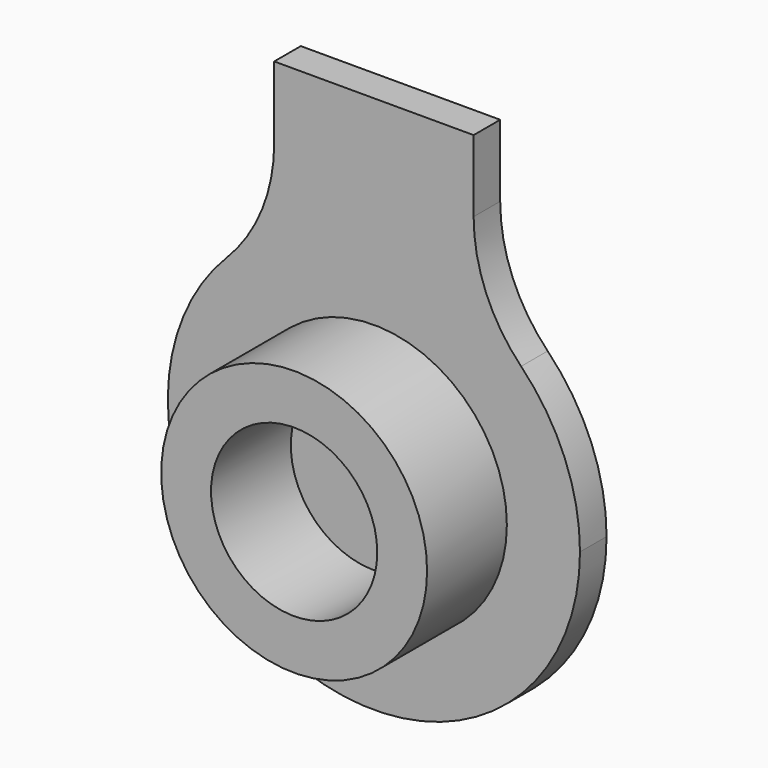
from build123d import *

# Parameters (mm, degrees)
F1_DEPTH = 5
F2_R     = 25
F3_R     = 20
F3_R_2   = 12.5
F4_DEPTH = 15


with BuildPart() as f1:
    # F0 (on Front) → F1 (new body)
    with BuildSketch(Plane.XZ):
        with BuildLine():
            Line((15, 0), (15, 27.12932))
            ThreePointArc((15, 27.12932), (0, 31), (-15, 27.12932))
            Line((-15, 27.12932), (-15, 0))
            Line((-15, 0), (0, 0))
            Line((0, 0), (15, 0))
        make_face()
        with BuildLine():
            ThreePointArc((-15, 27.12932), (-15.748016, -26.70206), (31, 0))
            ThreePointArc((31, 0), (26.70206, 15.748016), (15, 27.12932))
            Line((15, 27.12932), (15, 0))
            Line((15, 0), (0, 0))
            Line((0, 0), (-15, 0))
            Line((-15, 0), (-15, 27.12932))
        make_face()
        with BuildLine():
            ThreePointArc((-15, 27.12932), (0, 31), (15, 27.12932))
            Line((15, 27.12932), (15, 50))
            Line((15, 50), (-15, 50))
            Line((-15, 50), (-15, 27.12932))
        make_face()
    extrude(amount=F1_DEPTH)

    # F2
    f2_edges = [f1.edges().sort_by_distance(p)[0] for p in [
        (-15, -2.5, 27.12932),
        (15, -2.5, 27.12932),
    ]]
    fillet(f2_edges, radius=F2_R)

    # F3 (on face) → F4 (join)
    with BuildSketch(Plane.XZ.offset(5)):
        Circle(F3_R)
        Circle(F3_R_2, mode=Mode.SUBTRACT)
    extrude(amount=F4_DEPTH)


solid = f1.part
